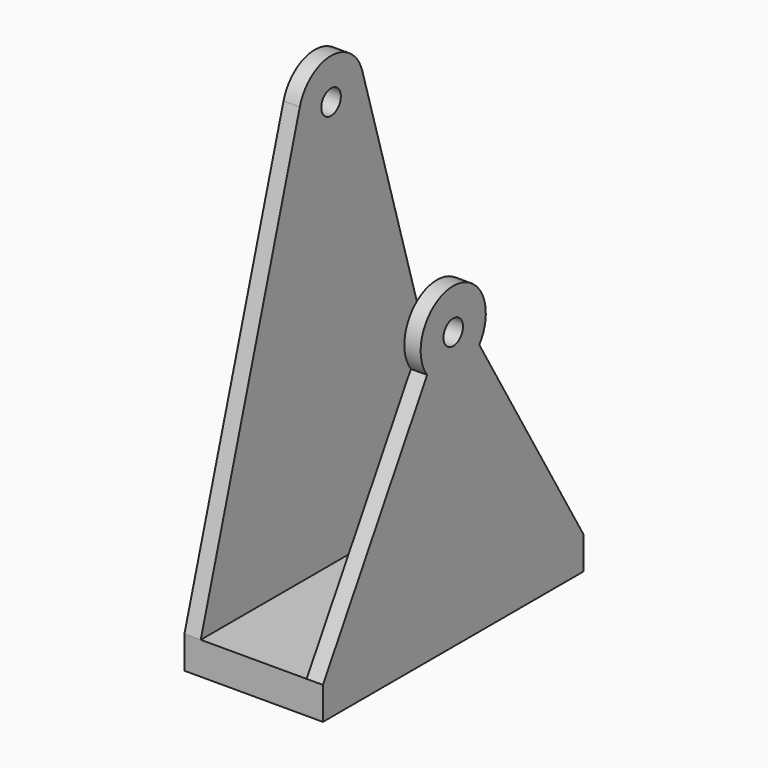
from build123d import *

# Parameters (mm, degrees)
SKETCH_0_R   = 7.5
PAD_DEPTH    = 10
SKETCH_2_W   = 200
SKETCH_2_H   = 20
PAD001_DEPTH = 85
SKETCH_1_R   = 7.5
PAD002_DEPTH = 10


with BuildPart() as part:
    with BuildSketch(Plane.YZ):
        with BuildLine():
            ThreePointArc((23.973718, 7.089487), (0, 25), (-23.973718, 7.089487))
            Line((-23.973718, 7.089487), (-100, -250))
            Line((-100, -250), (100, -250))
            Line((23.973718, 7.089487), (100, -250))
        make_face()
        Circle(SKETCH_0_R, mode=Mode.SUBTRACT)
    extrude(amount=PAD_DEPTH)

    with BuildSketch(Plane.YZ):
        with Locations((0, -260)):
            Rectangle(SKETCH_2_W, SKETCH_2_H)
    extrude(amount=PAD001_DEPTH)

    with BuildSketch(Plane(origin=(85, 0, -100), x_dir=(0, 1, 0), z_dir=(1, 0, 0))):
        with BuildLine():
            ThreePointArc((20, -15), (0, 25), (-20, -15))
            Line((-100, -150), (-20, -15))
            Line((100, -150), (-100, -150))
            Line((20, -15), (100, -150))
        make_face()
        Circle(SKETCH_1_R, mode=Mode.SUBTRACT)
    extrude(amount=-PAD002_DEPTH)


solid = part.part
